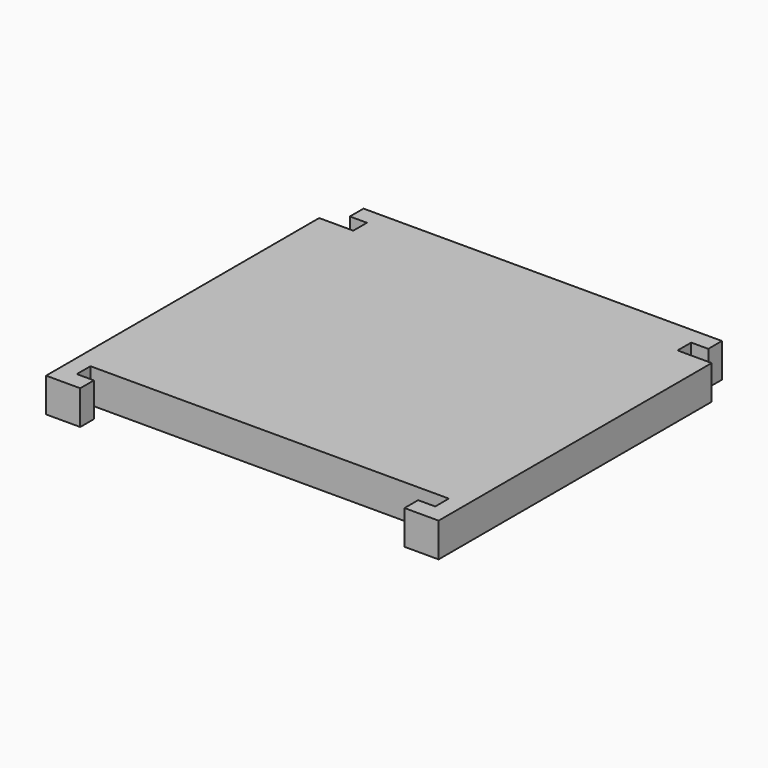
from build123d import *

# Parameters (mm, degrees)
F0_W     = 0.5
F0_H     = 0.5
F1_DEPTH = 1


with BuildPart() as f1:
    # F0 (on Top) → F1 (new body)
    with BuildSketch(Plane.XY):
        Polygon((5.25, -5), (5.75, -5), (5.75, 4.5), (4.75, 4.5), (4.75, 5), (5.25, 5), (5.25, 5.5), (-5.25, 5.5), (-5.25, 5), (-4.75, 5), (-4.75, 4.5), (-5.75, 4.5), (-5.75, -5), (-5.25, -5), (-5.25, -4.5), (5.25, -4.5), align=None)
        with Locations((-5.5, -5.25)):
            Rectangle(F0_W, F0_H)
        with Locations((-5, -5.25)):
            Rectangle(F0_W, F0_H)
        with Locations((5, -5.25)):
            Rectangle(F0_W, F0_H)
        with Locations((5.5, -5.25)):
            Rectangle(F0_W, F0_H)
    extrude(amount=F1_DEPTH)


solid = f1.part
